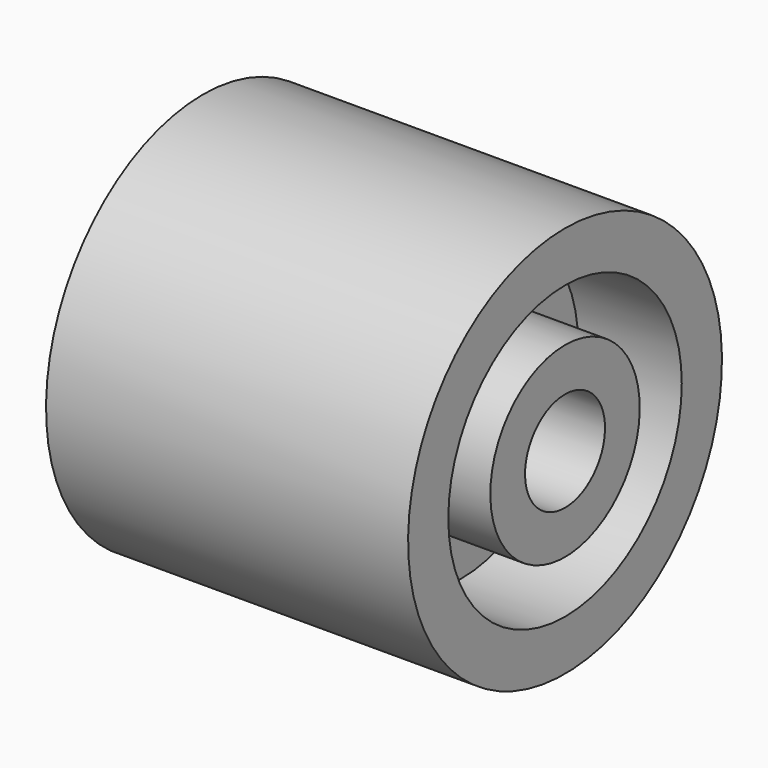
from build123d import *


with BuildPart() as f1:
    # F0 (on Front) → F1 (revolve)
    with BuildSketch(Plane.XZ):
        Polygon((0, 106.309958), (0, 27.088426), (98.111093, 27.088426), (98.111093, 50.60732), (42.004, 50.60732), (42.004, 79.077557), (98.111093, 79.077557), (98.111093, 106.309958), align=None)
        Polygon((-98.111093, 27.088426), (0, 27.088426), (0, 106.309958), (-98.111093, 106.309958), (-98.111093, 79.077557), (-42.004, 79.077557), (-42.004, 50.60732), (-98.111093, 50.60732), align=None)
    revolve(axis=Axis((-2.042737, 0, 0), (1, 0, 0)))


solid = f1.part
